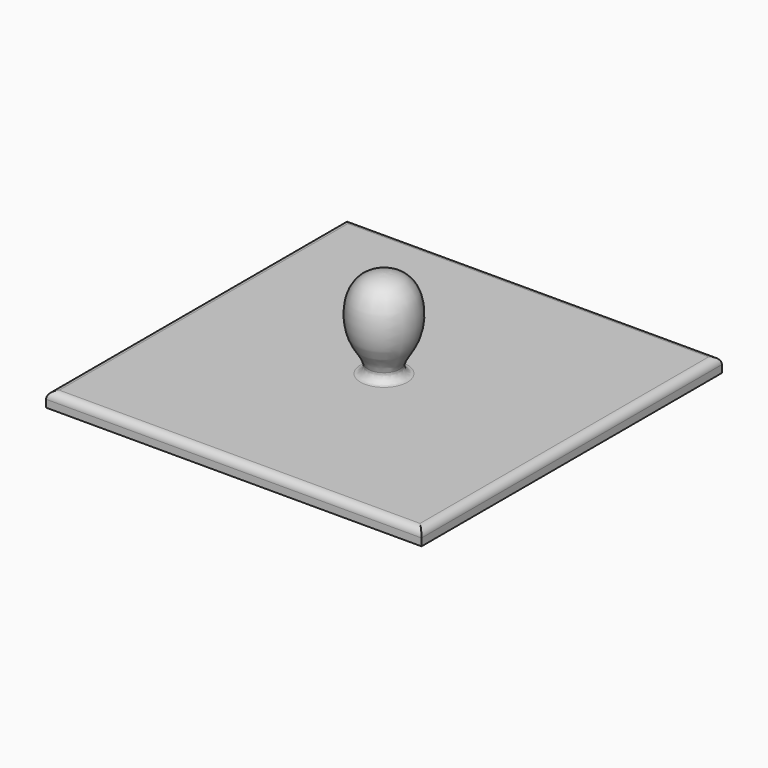
from build123d import *

# Parameters (mm, degrees)
F1_W     = 127
F1_H     = 127
F2_DEPTH = 5
F5_R     = 2.5


with BuildPart() as f2:
    # F1 (on Top) → F2 (new body)
    with BuildSketch(Plane.XY):
        Rectangle(F1_W, F1_H)
    extrude(amount=F2_DEPTH)

    # F3 (on Front) → F4 (revolve)
    with BuildSketch(Plane.XZ):
        with BuildLine():
            Line((-5.3333333333, 5), (0, 5))
            Line((0, 5), (0, 35))
            add(Edge.make_bspline(
                [(0, 35), (-6.5041498378, 34.8856949083), (-11.8426118801, 27.7496803572), (-10.0399512827, 13.5458032148), (-4.8367147753, 9.4293111278), (-5.3333333333, 5)],
                knots=[0, 0, 0, 0, 0.3484232949, 0.6924985169, 1, 1, 1, 1], degree=3))
        make_face()
    revolve(axis=Axis((0, 0, 20), (0, 0, 1)))

    # F5
    f5_edges = [f2.edges().sort_by_distance(p)[0] for p in [
        (0, -63.5, 5),
        (-63.5, 0, 5),
        (63.5, 0, 5),
        (0, 63.5, 5),
        (5.333333, 0, 5),
    ]]
    fillet(f5_edges, radius=F5_R)


solid = f2.part
